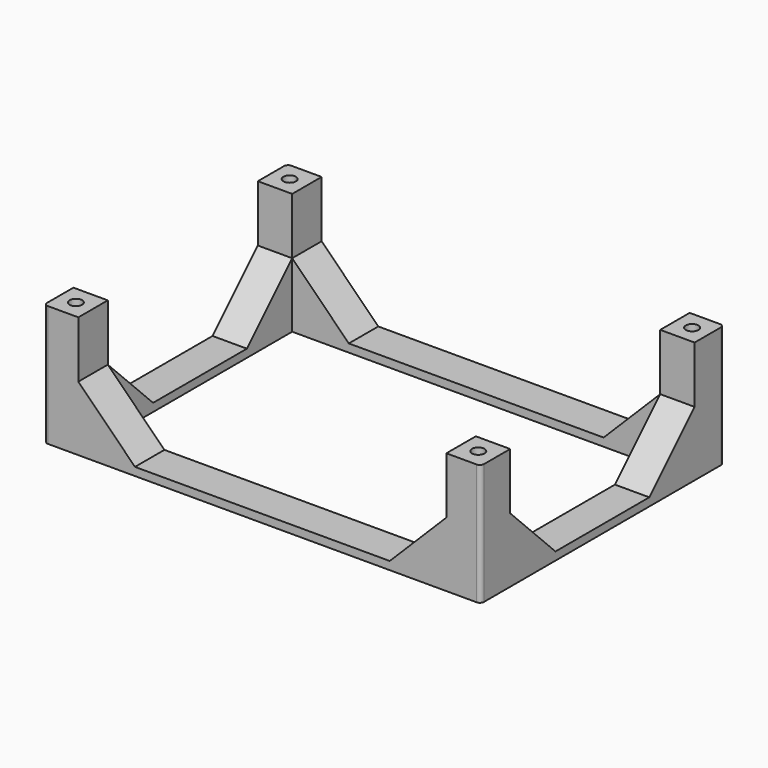
from build123d import *

# Parameters (mm, degrees)
SKETCH_W        = 108
SKETCH_H        = 75.2
SKETCH_W_2      = 91
SKETCH_H_2      = 57
PAD_DEPTH       = 2
PAD001_DEPTH    = 14
POCKET_DEPTH    = 75.2
POCKET001_DEPTH = 108
SKETCH004_W     = 8.5
SKETCH004_H     = 9.1
PAD002_DEPTH    = 14
SKETCH005_R     = 1.55
POCKET002_DEPTH = 30
FILLET_R        = 1
FILLET001_R     = 1
FILLET002_R     = 1
FILLET003_R     = 1


with BuildPart() as part:
    # Sketch → Pad (new body)
    with BuildSketch(Plane.XY):
        Rectangle(SKETCH_W, SKETCH_H)
        Rectangle(SKETCH_W_2, SKETCH_H_2, mode=Mode.SUBTRACT)
    extrude(amount=PAD_DEPTH)

    # Sketch001 (on Face10 of Pad) → Pad001 (join)
    with BuildSketch(Plane.XY.offset(2)):
        Polygon((-54, 37.6), (-54, 14.5), (-45.5, 14.5), (-45.5, 28.5), (-31.5, 28.5), (-31.5, 37.6), align=None)
        Polygon((31.5, 37.6), (54, 37.6), (54, 14.5), (45.5, 14.5), (45.5, 28.5), (31.5, 28.5), align=None)
        Polygon((45.5, -14.5), (45.5, -28.5), (31.5, -28.5), (31.5, -37.6), (54, -37.6), (54, -14.5), align=None)
        Polygon((-31.5, -28.5), (-45.5, -28.5), (-45.5, -14.5), (-54, -14.5), (-54, -37.6), (-31.5, -37.6), align=None)
    extrude(amount=PAD001_DEPTH)

    # Sketch002 (on Face25 of Pad001) → Pocket (cut)
    with BuildSketch(Plane.XZ.offset(37.6)):
        Polygon((-45.5, 16), (-31.5, 16), (-31.5, 2), align=None)
        Polygon((31.5, 16), (31.5, 2), (45.5, 16), align=None)
    extrude(amount=-POCKET_DEPTH, mode=Mode.SUBTRACT)

    # Sketch003 (on Face14 of Pocket) → Pocket001 (cut)
    with BuildSketch(Plane.YZ.offset(54)):
        Polygon((-28.5, 16), (-14.5, 16), (-14.5, 2), align=None)
        Polygon((14.5, 2), (14.5, 16), (28.5, 16), align=None)
    extrude(amount=-POCKET001_DEPTH, mode=Mode.SUBTRACT)

    # Sketch004 (on Face26 of Pocket001) → Pad002 (join)
    with BuildSketch(Plane.XY.offset(16)):
        with Locations((-49.75, 33.05)):
            Rectangle(SKETCH004_W, SKETCH004_H)
        with Locations((49.75, 33.05)):
            Rectangle(SKETCH004_W, SKETCH004_H)
        with Locations((49.75, -33.05)):
            Rectangle(SKETCH004_W, SKETCH004_H)
        with Locations((-49.75, -33.05)):
            Rectangle(SKETCH004_W, SKETCH004_H)
    extrude(amount=PAD002_DEPTH)

    # Sketch005 (on Face51 of Pad002) → Pocket002 (cut)
    with BuildSketch(Plane.XY.offset(30)):
        with Locations((-49.75, 33.05)):
            Circle(SKETCH005_R)
        with Locations((49.75, 33.05)):
            Circle(SKETCH005_R)
        with Locations((49.75, -33.05)):
            Circle(SKETCH005_R)
        with Locations((-49.75, -33.05)):
            Circle(SKETCH005_R)
    extrude(amount=-POCKET002_DEPTH, mode=Mode.SUBTRACT)

    # Fillet
    fillet_edges = [part.edges().sort_by_distance(p)[0] for p in [
        (-54, -37.6, 23),
    ]]
    fillet(fillet_edges, radius=FILLET_R)

    # Fillet001
    fillet001_edges = [part.edges().sort_by_distance(p)[0] for p in [
        (54, -37.6, 23),
    ]]
    fillet(fillet001_edges, radius=FILLET001_R)

    # Fillet002
    fillet002_edges = [part.edges().sort_by_distance(p)[0] for p in [
        (54, 37.6, 9),
    ]]
    fillet(fillet002_edges, radius=FILLET002_R)

    # Fillet003
    fillet003_edges = [part.edges().sort_by_distance(p)[0] for p in [
        (-54, 37.6, 23),
    ]]
    fillet(fillet003_edges, radius=FILLET003_R)


solid = part.part
